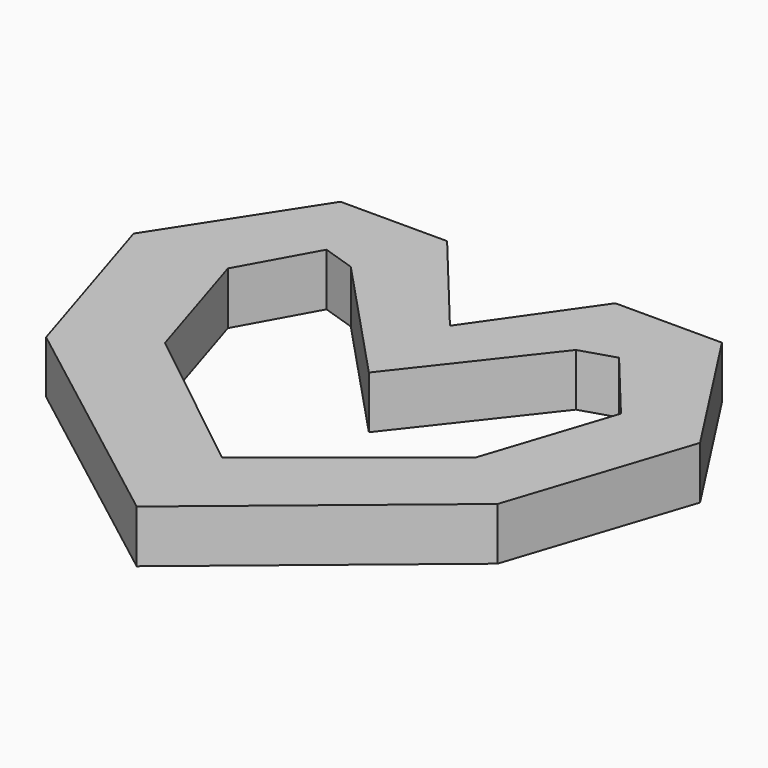
from build123d import *

# Parameters (mm, degrees)
F1_DEPTH = 5


with BuildPart() as f1:
    # F0 (on Top) → F1 (new body)
    with BuildSketch(Plane.XY):
        Polygon((-22.26945, -10.53465), (0, -27.603451), (20.66925, -10.53465), (26.269952, 6.53415), (17.468851, 20.13585), (7.33425, 20.13585), (0, 9.639748), (-8.667749, 20.13585), (-18.80235, 20.13585), (-27.603451, 6.53415), align=None)
        Polygon((14.721952, -5.73405), (0, -17.468851), (-14.80185, -5.73405), (-18.635663, 6.53415), (-14.80185, 13.46835), (-11.671755, 12.441288), (0, 0), (9.734549, 12.441288), (13.021149, 13.46835), (18.747457, 6.53415), align=None, mode=Mode.SUBTRACT)
    extrude(amount=F1_DEPTH)


solid = f1.part
